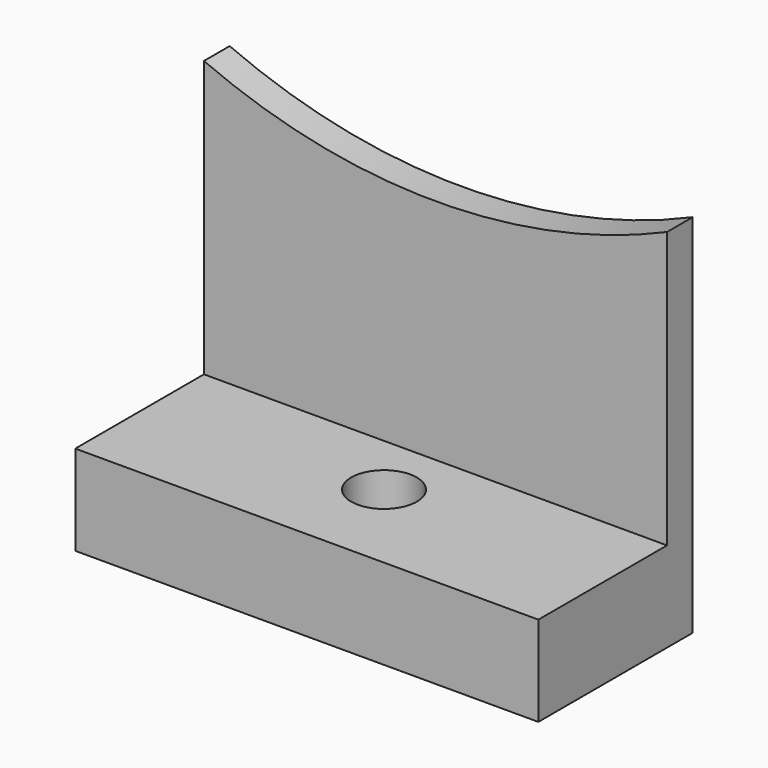
from build123d import *

# Parameters (mm, degrees)
F0_W       = 36
F0_H       = 15
F1_DEPTH   = 7
F2_W       = 36
F2_H       = 2.5
F3_DEPTH   = 30
F3_FACE1_W = 36
F3_FACE1_H = 30
F5_DEPTH   = 25
F6_D       = 5.1054


with BuildPart() as f1:
    # F0 (on Top) → F1 (new body)
    with BuildSketch(Plane.XY):
        Rectangle(F0_W, F0_H)
    extrude(amount=F1_DEPTH)

    # F2 (on face) → F3 (join)
    with BuildSketch(Plane.XY.offset(7)):
        with Locations((0, 6.25)):
            Rectangle(F2_W, F2_H)
    extrude(amount=F3_DEPTH)

    # F4 (on face) + F3_face1 (on face) → F5 (cut)
    with BuildSketch(Plane(origin=(0, 7.5, 0), x_dir=(-1, 0, 0), z_dir=(0, 1, 0))):
        with BuildLine():
            Line((-18, 37), (-18, 28.4477328312))
            ThreePointArc((-18, 28.4477328312), (0, 24.7), (18, 28.4477328312))
            Line((18, 28.4477328312), (18, 37))
            Line((18, 37), (-18, 37))
        make_face()
    with BuildSketch(Plane(origin=(0, 5, 22), x_dir=(1, 0, 0), z_dir=(0, -1, 0))):
        Rectangle(F3_FACE1_W, F3_FACE1_H)
    extrude(amount=-F5_DEPTH, dir=(0, 1, 0), mode=Mode.SUBTRACT)

    # F6 (through all)
    with Locations(Plane(origin=(0, 0, 0), x_dir=(1, 0, 0), z_dir=(0, 0, -1))):
        with Locations((0, 0)):
            Hole(F6_D / 2)


solid = f1.part
